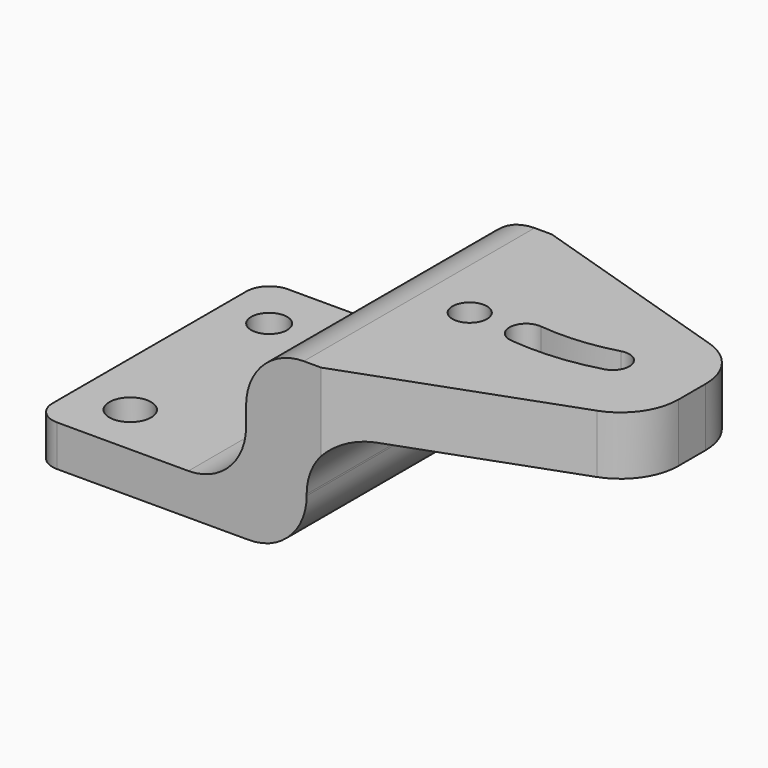
from build123d import *

# Parameters (mm, degrees)
F1_DEPTH = 25
F2_R     = 1.558197
F2_R_2   = 1.810611
F3_DEPTH = 25
F4_R     = 1.495771
F5_DEPTH = 25
F6_R     = 2


with BuildPart() as f1:
    # F0 (on Front) → F1 (new body)
    with BuildSketch(Plane.XZ):
        with BuildLine():
            Line((-43.781251, -2.71875), (-43.781251, -6.281251))
            Line((-43.781251, -6.281251), (-25.156251, -6.281251))
            ThreePointArc((-25.156251, -6.281251), (-21.620717, -4.816785), (-20.156251, -1.281251))
            Line((-20.156251, -1.281251), (-20.156251, -1.15625))
            ThreePointArc((-20.156251, -1.15625), (-18.691785, 2.379284), (-15.156251, 3.84375))
            Line((-15.156251, 3.84375), (2.906251, 3.84375))
            Line((2.906251, 3.84375), (2.906251, 8.906251))
            Line((2.906251, 8.906251), (-20.406251, 8.906251))
            ThreePointArc((-20.406251, 8.906251), (-23.941785, 7.441785), (-25.406251, 3.906251))
            Line((-25.406251, 3.906251), (-25.406251, 2.28125))
            ThreePointArc((-25.406251, 2.28125), (-26.870717, -1.254284), (-30.406251, -2.71875))
            Line((-30.406251, -2.71875), (-43.781251, -2.71875))
        make_face()
    extrude(amount=F1_DEPTH)

    # F2 (on face) → F3 (cut)
    with BuildSketch(Plane.XY.offset(-2.71875)):
        with Locations((-39.640795, -4.70578)):
            Circle(F2_R)
        with Locations((-39.078295, -20.455781)):
            Circle(F2_R_2)
    extrude(amount=-F3_DEPTH, mode=Mode.SUBTRACT)

    # F4 (on face) → F5 (cut)
    with BuildSketch(Plane.XY.offset(8.906251)):
        with BuildLine():
            ThreePointArc((-0.577267, -5.833911), (1.942488, -7.647325), (2.906251, -10.598393))
            Line((2.906251, -10.598393), (2.906251, 0))
            Line((2.906251, 0), (-18.906251, 0))
            Line((-18.906251, 0), (-0.577267, -5.833911))
        make_face()
        with BuildLine():
            Line((2.906251, -25), (2.906251, -13.569611))
            ThreePointArc((2.906251, -13.569611), (2.001345, -16.438445), (-0.385832, -18.268869))
            Line((-0.385832, -18.268869), (-18.906251, -25))
            Line((-18.906251, -25), (2.906251, -25))
        make_face()
        with Locations((-16.0868, -12.426148)):
            Circle(F4_R)
        with BuildLine():
            ThreePointArc((-4.555258, -10.445567), (-7.775122, -11.030102), (-11.047432, -10.995579))
            ThreePointArc((-11.047432, -10.995579), (-12.632527, -12.304577), (-11.29052, -13.861825))
            Line((-11.29052, -13.861825), (-11.275081, -13.867438))
            ThreePointArc((-11.275081, -13.867438), (-7.493954, -13.896562), (-3.774169, -13.217624))
            Line((-3.774169, -13.217624), (-3.747407, -13.206846))
            ThreePointArc((-3.747407, -13.206846), (-2.784389, -11.426288), (-4.555258, -10.445567))
        make_face()
    extrude(amount=-F5_DEPTH, mode=Mode.SUBTRACT)

    # F6
    f6_edges = [f1.edges().sort_by_distance(p)[0] for p in [
        (-43.781251, 0, -4.5),
        (-43.781251, -25, -4.5),
    ]]
    fillet(f6_edges, radius=F6_R)


solid = f1.part
